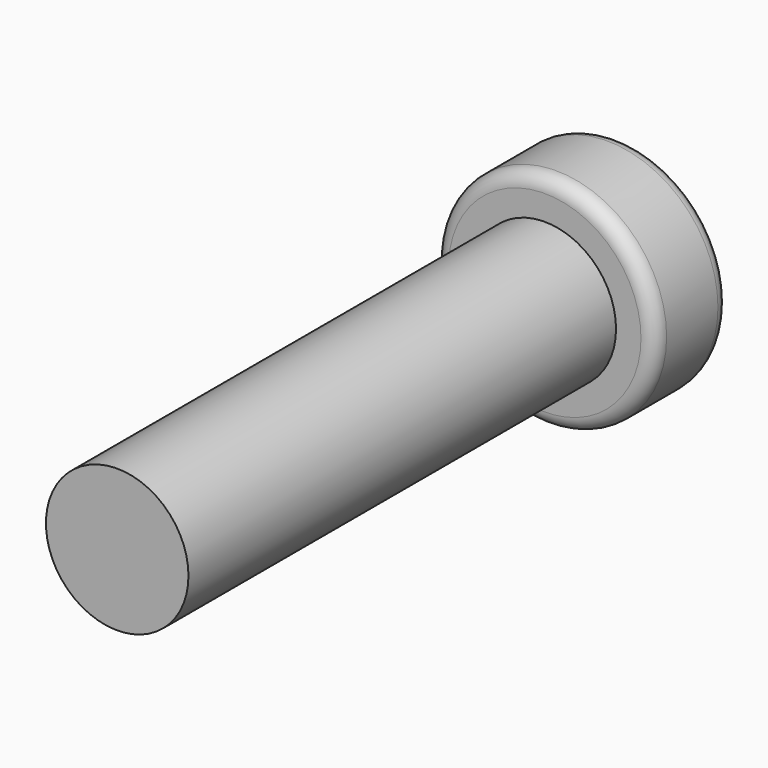
from build123d import *

# Parameters (mm, degrees)
FILLET_R     = 0.2
POCKET_DEPTH = 0.5
FILLET001_R  = 0.05


with BuildPart() as part:
    # Sketch → Revolution (revolve)
    with BuildSketch(Plane.XY):
        Polygon((0, 0), (0, 8.8), (1.55, 8.8), (1.55, 7.5), (1, 7.5), (1, 0), align=None)
    revolve(axis=Axis((0, 0, 0), (0, 1, 0)))

    # Fillet
    fillet_edges = [part.edges().sort_by_distance(p)[0] for p in [
        (-1.55, 8.8, 0),
        (-1.55, 7.5, 0),
    ]]
    fillet(fillet_edges, radius=FILLET_R)

    # Sketch001 (on Face1 of Fillet) → Pocket (cut)
    with BuildSketch(Plane(origin=(0, 8.8, 0), x_dir=(-1, 0, 0), z_dir=(0, 1, 0))):
        Polygon((0, 1), (0.3, 1), (0.3, 0.3), (1, 0.3), (1, -0.3), (0.3, -0.3), (0.3, -1), (0, -1), align=None)
    pocket = extrude(amount=-POCKET_DEPTH, mode=Mode.SUBTRACT)

    # Mirrored: Pocket across Sketch001 V_Axis
    add(pocket.mirror(Plane(origin=(0, 8.8, 0), x_dir=(0, 1, 0), z_dir=(-1, 0, 0))), mode=Mode.SUBTRACT)

    # Fillet001
    fillet001_edges = [part.edges().sort_by_distance(p)[0] for p in [
        (-0.65, 8.8, 0.3),
        (-1, 8.8, 0),
        (-0.65, 8.8, -0.3),
        (-0.3, 8.8, -0.65),
        (-0.15, 8.8, -1),
        (0.15, 8.8, -1),
        (0.3, 8.8, -0.65),
        (0.65, 8.8, -0.3),
        (0.65, 8.8, 0.3),
        (1, 8.8, 0),
        (0.3, 8.8, 0.65),
        (-0.3, 8.8, 0.65),
        (-0.15, 8.8, 1),
        (0.15, 8.8, 1),
    ]]
    fillet(fillet001_edges, radius=FILLET001_R)


solid = part.part
